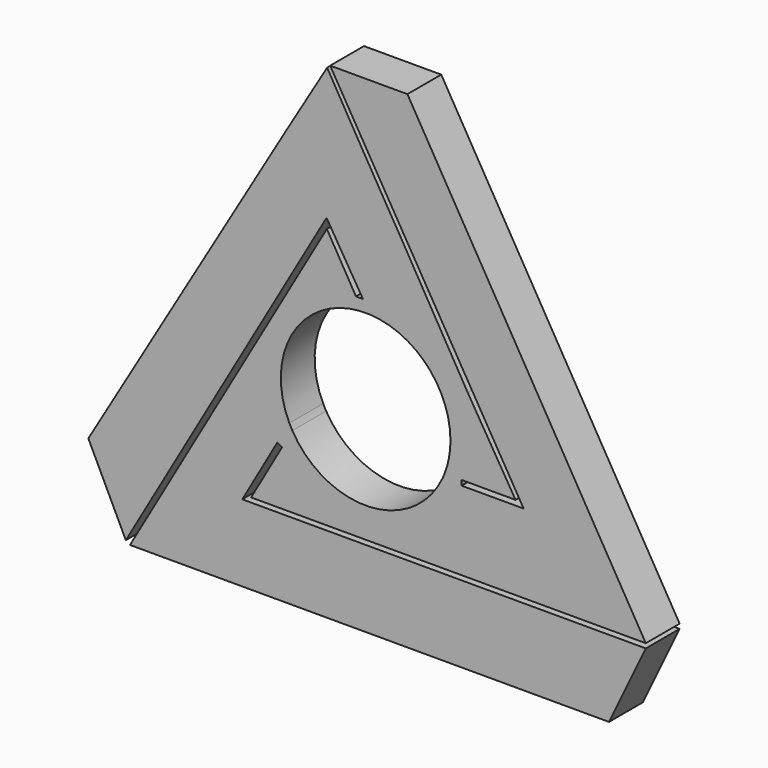
from build123d import *

# Parameters (mm, degrees)
F1_DEPTH = 6.35


with BuildPart() as f1:
    # F0 (on Front) → F1 (new body)
    with BuildSketch(Plane.XZ):
        with BuildLine():
            ThreePointArc((0.6420356595, 12.7143275372), (0.6423650343, 12.7143109004), (0.6426944088, 12.7142942552))
            Line((0.6426944088, 12.7142942552), (-0.4023160921, 14.4262710383))
            Line((-0.4023160921, 14.4262710383), (0.6420356595, 12.7143275372))
        make_face()
        with BuildLine():
            Line((-0.4023160921, 14.4262710383), (0.6426944088, 12.7142942552))
            ThreePointArc((0.6426944088, 12.7142942552), (9.2262715508, 8.7716730321), (12.7305276603, 0))
            ThreePointArc((12.7305276603, 0), (12.5071194057, -2.3745101985), (11.8447358325, -4.6656797543))
            Line((11.8447358325, -4.6656797543), (14.4029557705, -4.6656797543))
            Line((14.4029557705, -4.6656797543), (22.5044383929, -4.6656797543))
            Line((22.5044383929, -4.6656797543), (15.3299933299, 7.1679912508))
            Line((15.3299933299, 7.1679912508), (8.834191598, 18.3064807206))
            Line((8.834191598, 18.3064807206), (5.1066773012, 24.7028805315))
            Line((5.1066773012, 24.7028805315), (2.5157989003, 29.0710516274))
            Line((2.5157989003, 29.0710516274), (-1.2103774352, 35.4090332985))
            Line((-1.2103774352, 35.4090332985), (-5.780342864, 43.2452502747))
            Line((-5.780342864, 43.2452502747), (-11.8711013347, 33.0273285508))
            Line((-11.8711013347, 33.0273285508), (-21.6382108629, 16.4683535695))
            Line((-21.6382108629, 16.4683535695), (-28.8438722491, 4.2575513944))
            Line((-28.8438722491, 4.2575513944), (-37.3607726563, -10.1818424051))
            Line((-37.3607726563, -10.1818424051), (-41.6159545072, -17.3959982008))
            Line((-41.6159545072, -17.3959982008), (-35.9957702458, -29.0205851197))
            Line((-35.9957702458, -29.0205851197), (-5.8674761094, 23.3795084059))
            Line((-5.8674761094, 23.3795084059), (-0.4023160921, 14.4262710383))
        make_face()
        with BuildLine():
            ThreePointArc((-0.4550087817, 12.7223937024), (0.0936003687, 12.7301835604), (0.6420356595, 12.7143275372))
            Line((0.6420356595, 12.7143275372), (-0.4023160921, 14.4262710383))
            Line((-0.4023160921, 14.4262710383), (-1.4486847535, 14.4262710383))
            Line((-1.4486847535, 14.4262710383), (-0.4550087817, 12.7223937024))
        make_face()
        with BuildLine():
            Line((14.4029557705, -4.6656797543), (11.8447358325, -4.6656797543))
            ThreePointArc((11.8447358325, -4.6656797543), (11.6874073381, -5.0468647915), (11.5178153855, -5.4227542132))
            Line((11.5178153855, -5.4227542132), (14.4029557705, -5.4227542132))
            Line((14.4029557705, -5.4227542132), (14.4029557705, -4.6656797543))
        make_face()
        with BuildLine():
            ThreePointArc((-11.4526011537, -5.5591601277), (-10.9087852763, 6.5623729174), (-0.4550087817, 12.7223937024))
            Line((-0.4550087817, 12.7223937024), (-1.4486847535, 14.4262710383))
            Line((-1.4486847535, 14.4262710383), (-5.8187865652, 21.9197776169))
            Line((-5.8187865652, 21.9197776169), (-35.3677496314, -29.4446740299))
            Line((-35.3677496314, -29.4446740299), (36.5263037384, -29.4446740299))
            Line((36.5263037384, -29.4446740299), (42.0490317047, -17.9329384118))
            Line((42.0490317047, -17.9329384118), (-18.515009433, -17.9329384118))
            Line((-18.515009433, -17.9329384118), (-13.2635079075, -8.731981321))
            Line((-13.2635079075, -8.731981321), (-11.4526011537, -5.5591601277))
        make_face()
        with BuildLine():
            Line((14.4029557705, -5.4227542132), (11.5178153855, -5.4227542132))
            ThreePointArc((11.5178153855, -5.4227542132), (0.5570083344, -12.7183362208), (-10.9996389525, -6.4089217053))
            Line((-10.9996389525, -6.4089217053), (-12.5560140818, -9.1357876716))
            Line((-12.5560140818, -9.1357876716), (-17.1864125878, -17.2485336661))
            Line((-17.1864125878, -17.2485336661), (42.0490317047, -17.2485336661))
            Line((42.0490317047, -17.2485336661), (6.2697511166, 43.6630621552))
            Line((6.2697511166, 43.6630621552), (-5.3252791986, 43.6630621552))
            Line((-5.3252791986, 43.6630621552), (23.7136855721, -5.4227542132))
            Line((23.7136855721, -5.4227542132), (14.4029557705, -5.4227542132))
        make_face()
        with BuildLine():
            ThreePointArc((-10.9996389525, -6.4089217053), (-11.2341575176, -5.9883252566), (-11.4526011537, -5.5591601277))
            Line((-11.4526011537, -5.5591601277), (-13.2635079075, -8.731981321))
            Line((-13.2635079075, -8.731981321), (-12.5560140818, -9.1357876716))
            Line((-12.5560140818, -9.1357876716), (-10.9996389525, -6.4089217053))
        make_face()
    extrude(amount=F1_DEPTH)


solid = f1.part
